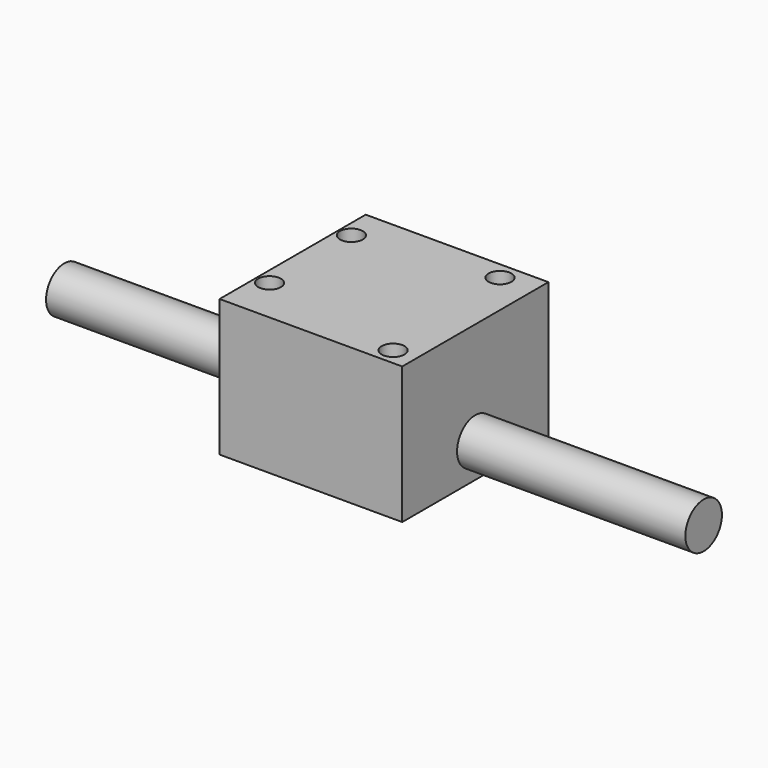
from build123d import *

# Parameters (mm, degrees)
F0_W     = 50.8
F0_H     = 50.8
F0_R     = 3.175
F1_DEPTH = 19.05
F2_R     = 6.35
F3_DEPTH = 88.9


with BuildPart() as f1:
    # F0 (on Top) → F1 (new body, symmetric)
    with BuildSketch(Plane.XY):
        Rectangle(F0_W, F0_H)
        with Locations((-21.65604, -12.7)):
            Circle(F0_R, mode=Mode.SUBTRACT)
        with Locations((19.095719, -20.695919)):
            Circle(F0_R, mode=Mode.SUBTRACT)
        with Locations((-21.762719, 15.875)):
            Circle(F0_R, mode=Mode.SUBTRACT)
        with Locations((15.875, 20.482561)):
            Circle(F0_R, mode=Mode.SUBTRACT)
    extrude(amount=F1_DEPTH, both=True)

    # F2 (on Right) → F3 (join, symmetric)
    with BuildSketch(Plane.YZ):
        with Locations((0, -9.525)):
            Circle(F2_R)
    extrude(amount=F3_DEPTH, both=True)


solid = f1.part
